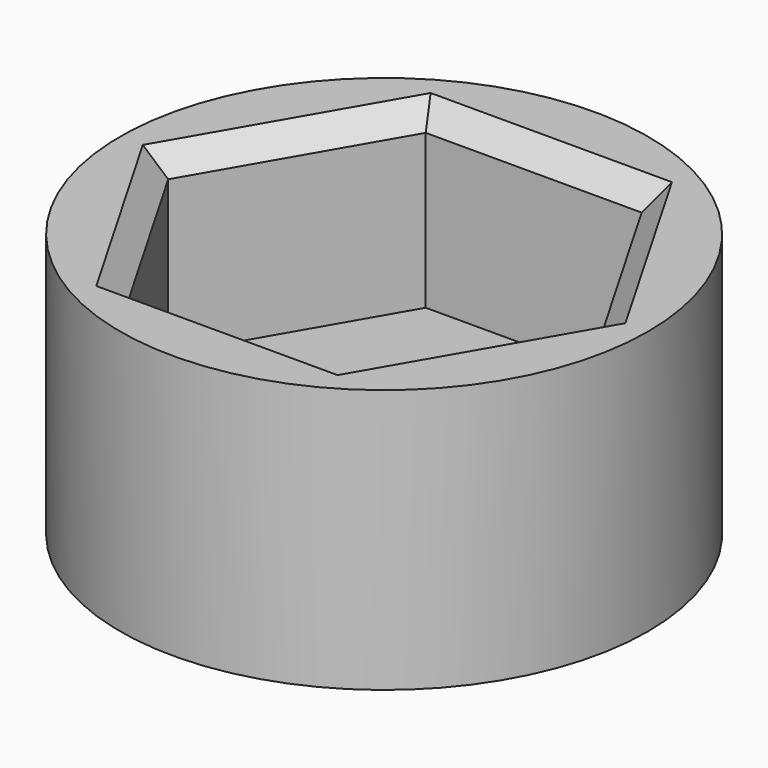
from build123d import *

# Parameters (mm, degrees)
SKETCH001_R  = 12
PAD001_DEPTH = 8
SKETCH_R     = 12
SKETCH_R_2   = 3
PAD_DEPTH    = 4
CHAMFER_SIZE = 1


with BuildPart() as part:
    # Sketch001 → Pad001 (new body)
    with BuildSketch(Plane.XY.offset(4)):
        Circle(SKETCH001_R)
        Polygon((4.907477, -8.5), (9.814955, 0), (4.907477, 8.5), (-4.907477, 8.5), (-9.814955, 0), (-4.907477, -8.5), align=None, mode=Mode.SUBTRACT)
    extrude(amount=PAD001_DEPTH)

    # Sketch (on Face8 of Pad001) → Pad (join)
    with BuildSketch(Plane(origin=(0, 0, 4), x_dir=(1, 0, 0), z_dir=(0, 0, -1))):
        Circle(SKETCH_R)
        Circle(SKETCH_R_2, mode=Mode.SUBTRACT)
    extrude(amount=PAD_DEPTH)

    # Chamfer
    chamfer_edges = [part.edges().sort_by_distance(p)[0] for p in [
        (-7.361216, -4.25, 12),
        (-7.361216, 4.25, 12),
        (0, 8.5, 12),
        (7.361216, 4.25, 12),
        (0, -8.5, 12),
        (7.361216, -4.25, 12),
    ]]
    chamfer(chamfer_edges, length=CHAMFER_SIZE)


solid = part.part
